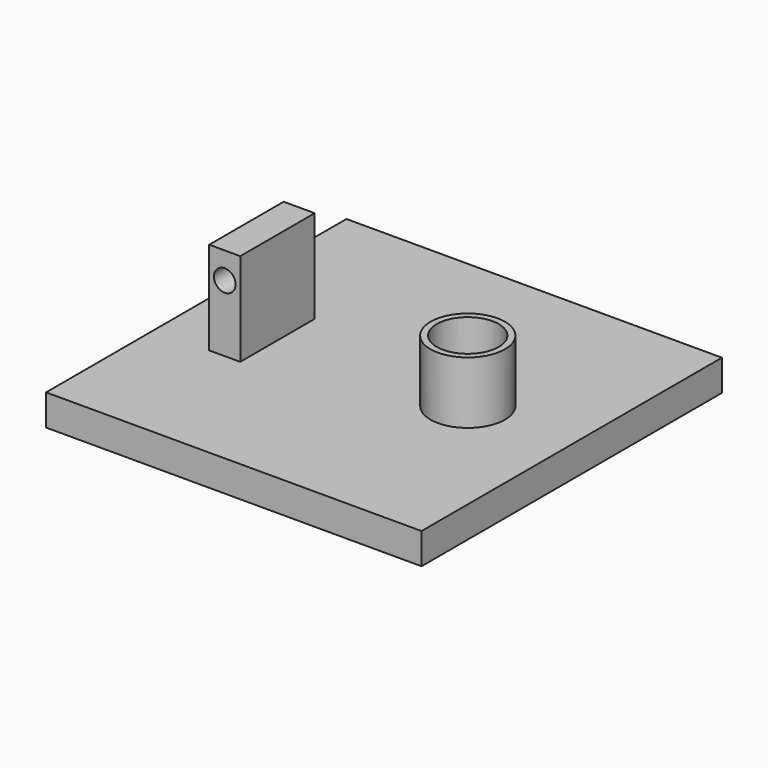
from build123d import *

# Parameters (mm, degrees)
TUBE_R            = 12
TUBE_R_2          = 10
TUBE_DEPTH        = 30
SKETCH004_W       = 121.04
SKETCH004_H       = 121.04
PAD002_DEPTH      = 10
CYLINDER001_R     = 10
CYLINDER001_DEPTH = 23
SKETCH012_W       = 10
SKETCH012_H       = 30
PAD003_DEPTH      = 30
SKETCH014_R       = 3.484265
POCKET001_DEPTH   = 80.531


with BuildPart() as tube:
    # Tube → Tube (new body)
    with BuildSketch(Plane(origin=(27, 0, 350), x_dir=(1, 0, 0), z_dir=(0, 0, 1))):
        Circle(TUBE_R)
        Circle(TUBE_R_2, mode=Mode.SUBTRACT)
    extrude(amount=TUBE_DEPTH)


with BuildPart() as fusion001:
    # Sketch004 → Pad002 (new body)
    with BuildSketch(Plane.XY.offset(350)):
        Rectangle(SKETCH004_W, SKETCH004_H)
    extrude(amount=PAD002_DEPTH)

    # Cylinder001 → Cylinder001 (cut)
    with BuildSketch(Plane(origin=(27, 0, 367), x_dir=(1, 0, 0), z_dir=(0, 0, -1))):
        Circle(CYLINDER001_R)
    extrude(amount=CYLINDER001_DEPTH, mode=Mode.SUBTRACT)

    # Sketch012 (on Face5 of Cylinder001) → Pad003 (join)
    with BuildSketch(Plane(origin=(27, 3, 360), x_dir=(1, 0, 0), z_dir=(0, 0, 1))):
        with Locations((-64.733763, -5.008474)):
            Rectangle(SKETCH012_W, SKETCH012_H)
    extrude(amount=PAD003_DEPTH)

    # Sketch014 → Pocket001 (cut, through all)
    with BuildSketch(Plane(origin=(27, -20.01, 380), x_dir=(-1, 0, 0), z_dir=(0, -1, 0))):
        with Locations((64.727894, -1.47525)):
            Circle(SKETCH014_R)
    extrude(amount=-POCKET001_DEPTH, mode=Mode.SUBTRACT)

    # Fusion001: union Tube
    add(tube.part)


with BuildPart() as fusion001_1:
    # Fusion001 placement: moved
    add(fusion001.part.moved(Location((-350, 0, 0))))


solid = fusion001_1.part
